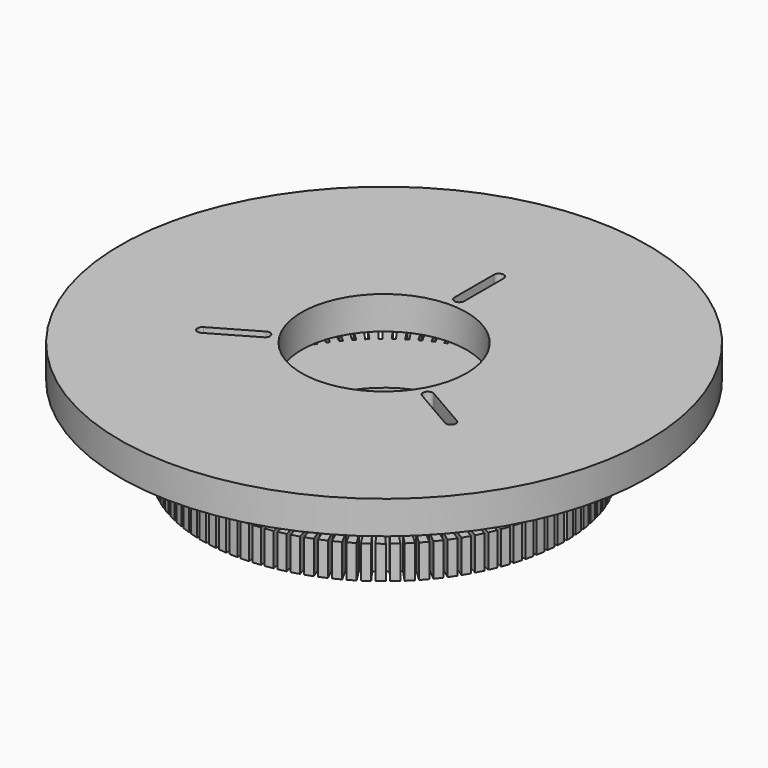
from build123d import *

# Parameters (mm, degrees)
F0_R     = 1
F0_R_2   = 25
F1_DEPTH = 10
F3_R     = 80
F3_R_2   = 25
F4_DEPTH = 10


with BuildPart() as f1:
    # F0 (on Top) → F1 (new body)
    with BuildSketch(Plane.XY):
        with BuildLine():
            Line((50, 0.5), (54.997727, 0.5))
            ThreePointArc((54.997727, 0.5), (54.972861, 1.727592), (54.920597, 2.954323))
            Line((54.920597, 2.954323), (49.932732, 2.640513))
            Line((49.932732, 2.640513), (49.869941, 3.638539))
            Line((49.869941, 3.638539), (54.857807, 3.952349))
            ThreePointArc((54.857807, 3.952349), (54.755908, 5.175957), (54.62672, 6.396986))
            Line((54.62672, 6.396986), (49.668402, 5.770604))
            Line((49.668402, 5.770604), (49.543068, 6.762719))
            Line((49.543068, 6.762719), (54.501387, 7.3891))
            ThreePointArc((54.501387, 7.3891), (54.322859, 8.603896), (54.117257, 9.814403))
            Line((54.117257, 9.814403), (49.208053, 8.877922))
            Line((49.208053, 8.877922), (49.020672, 9.860209))
            Line((49.020672, 9.860209), (53.929876, 10.79669))
            ThreePointArc((53.929876, 10.79669), (53.675422, 11.997878), (53.394217, 13.193087))
            Line((53.394217, 13.193087), (48.553503, 11.950203))
            Line((48.553503, 11.950203), (48.304813, 12.918786))
            Line((48.304813, 12.918786), (53.145528, 14.16167))
            ThreePointArc((53.145528, 14.16167), (52.816153, 15.344511), (52.460455, 16.519704))
            Line((52.460455, 16.519704), (47.707334, 14.975321))
            Line((47.707334, 14.975321), (47.398317, 15.926378))
            Line((47.398317, 15.926378), (52.151438, 17.470761))
            ThreePointArc((52.151438, 17.470761), (51.748442, 18.630586), (51.319656, 19.781125))
            Line((51.319656, 19.781125), (46.672887, 17.941339))
            Line((46.672887, 17.941339), (46.304762, 18.871116))
            Line((46.304762, 18.871116), (50.951531, 20.710902))
            ThreePointArc((50.951531, 20.710902), (50.476504, 21.843134), (49.976321, 22.96448))
            Line((49.976321, 22.96448), (45.454242, 20.836551))
            Line((45.454242, 20.836551), (45.028463, 21.741378))
            Line((45.028463, 21.741378), (49.550542, 23.869307))
            ThreePointArc((49.550542, 23.869307), (49.005359, 24.969477), (48.435753, 26.057204))
            Line((48.435753, 26.057204), (44.056211, 23.64953))
            Line((44.056211, 23.64953), (43.574457, 24.525837))
            Line((43.574457, 24.525837), (47.953999, 26.93351))
            ThreePointArc((47.953999, 26.93351), (47.340811, 27.997278), (46.70403, 29.047092))
            Line((46.70403, 29.047092), (42.48431, 26.369176))
            Line((42.48431, 26.369176), (41.948483, 27.213504))
            Line((41.948483, 27.213504), (46.168204, 29.89142))
            ThreePointArc((46.168204, 29.89142), (45.489432, 30.914586), (44.787989, 31.922344))
            Line((44.787989, 31.922344), (40.744742, 28.984754))
            Line((40.744742, 28.984754), (40.156957, 29.793771))
            Line((40.156957, 29.793771), (44.200203, 32.731361))
            ThreePointArc((44.200203, 32.731361), (43.458526, 33.709888), (42.695189, 34.671614))
            Line((42.695189, 34.671614), (38.844374, 31.485943))
            Line((38.844374, 31.485943), (38.20695, 32.256456))
            Line((38.20695, 32.256456), (42.057765, 35.442127))
            ThreePointArc((42.057765, 35.442127), (41.256109, 36.372153), (40.433891, 37.284051))
            Line((40.433891, 37.284051), (36.790705, 33.862871))
            Line((36.790705, 33.862871), (36.106158, 34.59184))
            Line((36.106158, 34.59184), (39.749344, 38.013019))
            ThreePointArc((39.749344, 38.013019), (38.890873, 38.890873), (38.013019, 39.749344))
            Line((38.013019, 39.749344), (34.59184, 36.106158))
            Line((34.59184, 36.106158), (33.862871, 36.790705))
            Line((33.862871, 36.790705), (37.284051, 40.433891))
            ThreePointArc((37.284051, 40.433891), (36.372153, 41.256109), (35.442127, 42.057765))
            Line((35.442127, 42.057765), (32.256456, 38.20695))
            Line((32.256456, 38.20695), (31.485943, 38.844374))
            Line((31.485943, 38.844374), (34.671614, 42.695189))
            ThreePointArc((34.671614, 42.695189), (33.709888, 43.458526), (32.731361, 44.200203))
            Line((32.731361, 44.200203), (29.793771, 40.156957))
            Line((29.793771, 40.156957), (28.984754, 40.744742))
            Line((28.984754, 40.744742), (31.922344, 44.787989))
            ThreePointArc((31.922344, 44.787989), (30.914586, 45.489432), (29.89142, 46.168204))
            Line((29.89142, 46.168204), (27.213504, 41.948483))
            Line((27.213504, 41.948483), (26.369176, 42.48431))
            Line((26.369176, 42.48431), (29.047092, 46.70403))
            ThreePointArc((29.047092, 46.70403), (27.997278, 47.340811), (26.93351, 47.953999))
            Line((26.93351, 47.953999), (24.525837, 43.574457))
            Line((24.525837, 43.574457), (23.64953, 44.056211))
            Line((23.64953, 44.056211), (26.057204, 48.435753))
            ThreePointArc((26.057204, 48.435753), (24.969477, 49.005359), (23.869307, 49.550542))
            Line((23.869307, 49.550542), (21.741378, 45.028463))
            Line((21.741378, 45.028463), (20.836551, 45.454242))
            Line((20.836551, 45.454242), (22.96448, 49.976321))
            ThreePointArc((22.96448, 49.976321), (21.843134, 50.476504), (20.710902, 50.951531))
            Line((20.710902, 50.951531), (18.871116, 46.304762))
            Line((18.871116, 46.304762), (17.941339, 46.672887))
            Line((17.941339, 46.672887), (19.781125, 51.319656))
            ThreePointArc((19.781125, 51.319656), (18.630586, 51.748442), (17.470761, 52.151438))
            Line((17.470761, 52.151438), (15.926378, 47.398317))
            Line((15.926378, 47.398317), (14.975321, 47.707334))
            Line((14.975321, 47.707334), (16.519704, 52.460455))
            ThreePointArc((16.519704, 52.460455), (15.344511, 52.816153), (14.16167, 53.145528))
            Line((14.16167, 53.145528), (12.918786, 48.304813))
            Line((12.918786, 48.304813), (11.950203, 48.553503))
            Line((11.950203, 48.553503), (13.193087, 53.394217))
            ThreePointArc((13.193087, 53.394217), (11.997878, 53.675422), (10.79669, 53.929876))
            Line((10.79669, 53.929876), (9.860209, 49.020672))
            Line((9.860209, 49.020672), (8.877922, 49.208053))
            Line((8.877922, 49.208053), (9.814403, 54.117257))
            ThreePointArc((9.814403, 54.117257), (8.603896, 54.322859), (7.3891, 54.501387))
            Line((7.3891, 54.501387), (6.762719, 49.543068))
            Line((6.762719, 49.543068), (5.770604, 49.668402))
            Line((5.770604, 49.668402), (6.396986, 54.62672))
            ThreePointArc((6.396986, 54.62672), (5.175957, 54.755908), (3.952349, 54.857807))
            Line((3.952349, 54.857807), (3.638539, 49.869941))
            Line((3.638539, 49.869941), (2.640513, 49.932732))
            Line((2.640513, 49.932732), (2.954323, 54.920597))
            ThreePointArc((2.954323, 54.920597), (1.727592, 54.972861), (0.5, 54.997727))
            Line((0.5, 54.997727), (0.5, 50))
            Line((0.5, 50), (-0.5, 50))
            Line((-0.5, 50), (-0.5, 54.997727))
            ThreePointArc((-0.5, 54.997727), (-1.727592, 54.972861), (-2.954323, 54.920597))
            Line((-2.954323, 54.920597), (-2.640513, 49.932732))
            Line((-2.640513, 49.932732), (-3.638539, 49.869941))
            Line((-3.638539, 49.869941), (-3.952349, 54.857807))
            ThreePointArc((-3.952349, 54.857807), (-5.175957, 54.755908), (-6.396986, 54.62672))
            Line((-6.396986, 54.62672), (-5.770604, 49.668402))
            Line((-5.770604, 49.668402), (-6.762719, 49.543068))
            Line((-6.762719, 49.543068), (-7.3891, 54.501387))
            ThreePointArc((-7.3891, 54.501387), (-8.603896, 54.322859), (-9.814403, 54.117257))
            Line((-9.814403, 54.117257), (-8.877922, 49.208053))
            Line((-8.877922, 49.208053), (-9.860209, 49.020672))
            Line((-9.860209, 49.020672), (-10.79669, 53.929876))
            ThreePointArc((-10.79669, 53.929876), (-11.997878, 53.675422), (-13.193087, 53.394217))
            Line((-13.193087, 53.394217), (-11.950203, 48.553503))
            Line((-11.950203, 48.553503), (-12.918786, 48.304813))
            Line((-12.918786, 48.304813), (-14.16167, 53.145528))
            ThreePointArc((-14.16167, 53.145528), (-15.344511, 52.816153), (-16.519704, 52.460455))
            Line((-16.519704, 52.460455), (-14.975321, 47.707334))
            Line((-14.975321, 47.707334), (-15.926378, 47.398317))
            Line((-15.926378, 47.398317), (-17.470761, 52.151438))
            ThreePointArc((-17.470761, 52.151438), (-18.630586, 51.748442), (-19.781125, 51.319656))
            Line((-19.781125, 51.319656), (-17.941339, 46.672887))
            Line((-17.941339, 46.672887), (-18.871116, 46.304762))
            Line((-18.871116, 46.304762), (-20.710902, 50.951531))
            ThreePointArc((-20.710902, 50.951531), (-21.843134, 50.476504), (-22.96448, 49.976321))
            Line((-22.96448, 49.976321), (-20.836551, 45.454242))
            Line((-20.836551, 45.454242), (-21.741378, 45.028463))
            Line((-21.741378, 45.028463), (-23.869307, 49.550542))
            ThreePointArc((-23.869307, 49.550542), (-24.969477, 49.005359), (-26.057204, 48.435753))
            Line((-26.057204, 48.435753), (-23.64953, 44.056211))
            Line((-23.64953, 44.056211), (-24.525837, 43.574457))
            Line((-24.525837, 43.574457), (-26.93351, 47.953999))
            ThreePointArc((-26.93351, 47.953999), (-27.997278, 47.340811), (-29.047092, 46.70403))
            Line((-29.047092, 46.70403), (-26.369176, 42.48431))
            Line((-26.369176, 42.48431), (-27.213504, 41.948483))
            Line((-27.213504, 41.948483), (-29.89142, 46.168204))
            ThreePointArc((-29.89142, 46.168204), (-30.914586, 45.489432), (-31.922344, 44.787989))
            Line((-31.922344, 44.787989), (-28.984754, 40.744742))
            Line((-28.984754, 40.744742), (-29.793771, 40.156957))
            Line((-29.793771, 40.156957), (-32.731361, 44.200203))
            ThreePointArc((-32.731361, 44.200203), (-33.709888, 43.458526), (-34.671614, 42.695189))
            Line((-34.671614, 42.695189), (-31.485943, 38.844374))
            Line((-31.485943, 38.844374), (-32.256456, 38.20695))
            Line((-32.256456, 38.20695), (-35.442127, 42.057765))
            ThreePointArc((-35.442127, 42.057765), (-36.372153, 41.256109), (-37.284051, 40.433891))
            Line((-37.284051, 40.433891), (-33.862871, 36.790705))
            Line((-33.862871, 36.790705), (-34.59184, 36.106158))
            Line((-34.59184, 36.106158), (-38.013019, 39.749344))
            ThreePointArc((-38.013019, 39.749344), (-38.890873, 38.890873), (-39.749344, 38.013019))
            Line((-39.749344, 38.013019), (-36.106158, 34.59184))
            Line((-36.106158, 34.59184), (-36.790705, 33.862871))
            Line((-36.790705, 33.862871), (-40.433891, 37.284051))
            ThreePointArc((-40.433891, 37.284051), (-41.256109, 36.372153), (-42.057765, 35.442127))
            Line((-42.057765, 35.442127), (-38.20695, 32.256456))
            Line((-38.20695, 32.256456), (-38.844374, 31.485943))
            Line((-38.844374, 31.485943), (-42.695189, 34.671614))
            ThreePointArc((-42.695189, 34.671614), (-43.458526, 33.709888), (-44.200203, 32.731361))
            Line((-44.200203, 32.731361), (-40.156957, 29.793771))
            Line((-40.156957, 29.793771), (-40.744742, 28.984754))
            Line((-40.744742, 28.984754), (-44.787989, 31.922344))
            ThreePointArc((-44.787989, 31.922344), (-45.489432, 30.914586), (-46.168204, 29.89142))
            Line((-46.168204, 29.89142), (-41.948483, 27.213504))
            Line((-41.948483, 27.213504), (-42.48431, 26.369176))
            Line((-42.48431, 26.369176), (-46.70403, 29.047092))
            ThreePointArc((-46.70403, 29.047092), (-47.340811, 27.997278), (-47.953999, 26.93351))
            Line((-47.953999, 26.93351), (-43.574457, 24.525837))
            Line((-43.574457, 24.525837), (-44.056211, 23.64953))
            Line((-44.056211, 23.64953), (-48.435753, 26.057204))
            ThreePointArc((-48.435753, 26.057204), (-49.005359, 24.969477), (-49.550542, 23.869307))
            Line((-49.550542, 23.869307), (-45.028463, 21.741378))
            Line((-45.028463, 21.741378), (-45.454242, 20.836551))
            Line((-45.454242, 20.836551), (-49.976321, 22.96448))
            ThreePointArc((-49.976321, 22.96448), (-50.476504, 21.843134), (-50.951531, 20.710902))
            Line((-50.951531, 20.710902), (-46.304762, 18.871116))
            Line((-46.304762, 18.871116), (-46.672887, 17.941339))
            Line((-46.672887, 17.941339), (-51.319656, 19.781125))
            ThreePointArc((-51.319656, 19.781125), (-51.748442, 18.630586), (-52.151438, 17.470761))
            Line((-52.151438, 17.470761), (-47.398317, 15.926378))
            Line((-47.398317, 15.926378), (-47.707334, 14.975321))
            Line((-47.707334, 14.975321), (-52.460455, 16.519704))
            ThreePointArc((-52.460455, 16.519704), (-52.816153, 15.344511), (-53.145528, 14.16167))
            Line((-53.145528, 14.16167), (-48.304813, 12.918786))
            Line((-48.304813, 12.918786), (-48.553503, 11.950203))
            Line((-48.553503, 11.950203), (-53.394217, 13.193087))
            ThreePointArc((-53.394217, 13.193087), (-53.675422, 11.997878), (-53.929876, 10.79669))
            Line((-53.929876, 10.79669), (-49.020672, 9.860209))
            Line((-49.020672, 9.860209), (-49.208053, 8.877922))
            Line((-49.208053, 8.877922), (-54.117257, 9.814403))
            ThreePointArc((-54.117257, 9.814403), (-54.322859, 8.603896), (-54.501387, 7.3891))
            Line((-54.501387, 7.3891), (-49.543068, 6.762719))
            Line((-49.543068, 6.762719), (-49.668402, 5.770604))
            Line((-49.668402, 5.770604), (-54.62672, 6.396986))
            ThreePointArc((-54.62672, 6.396986), (-54.755908, 5.175957), (-54.857807, 3.952349))
            Line((-54.857807, 3.952349), (-49.869941, 3.638539))
            Line((-49.869941, 3.638539), (-49.932732, 2.640513))
            Line((-49.932732, 2.640513), (-54.920597, 2.954323))
            ThreePointArc((-54.920597, 2.954323), (-54.972861, 1.727592), (-54.997727, 0.5))
            Line((-54.997727, 0.5), (-50, 0.5))
            Line((-50, 0.5), (-50, -0.5))
            Line((-50, -0.5), (-54.997727, -0.5))
            ThreePointArc((-54.997727, -0.5), (-54.972861, -1.727592), (-54.920597, -2.954323))
            Line((-54.920597, -2.954323), (-49.932732, -2.640513))
            Line((-49.932732, -2.640513), (-49.869941, -3.638539))
            Line((-49.869941, -3.638539), (-54.857807, -3.952349))
            ThreePointArc((-54.857807, -3.952349), (-54.755908, -5.175957), (-54.62672, -6.396986))
            Line((-54.62672, -6.396986), (-49.668402, -5.770604))
            Line((-49.668402, -5.770604), (-49.543068, -6.762719))
            Line((-49.543068, -6.762719), (-54.501387, -7.3891))
            ThreePointArc((-54.501387, -7.3891), (-54.322859, -8.603896), (-54.117257, -9.814403))
            Line((-54.117257, -9.814403), (-49.208053, -8.877922))
            Line((-49.208053, -8.877922), (-49.020672, -9.860209))
            Line((-49.020672, -9.860209), (-53.929876, -10.79669))
            ThreePointArc((-53.929876, -10.79669), (-53.675422, -11.997878), (-53.394217, -13.193087))
            Line((-53.394217, -13.193087), (-48.553503, -11.950203))
            Line((-48.553503, -11.950203), (-48.304813, -12.918786))
            Line((-48.304813, -12.918786), (-53.145528, -14.16167))
            ThreePointArc((-53.145528, -14.16167), (-52.816153, -15.344511), (-52.460455, -16.519704))
            Line((-52.460455, -16.519704), (-47.707334, -14.975321))
            Line((-47.707334, -14.975321), (-47.398317, -15.926378))
            Line((-47.398317, -15.926378), (-52.151438, -17.470761))
            ThreePointArc((-52.151438, -17.470761), (-51.748442, -18.630586), (-51.319656, -19.781125))
            Line((-51.319656, -19.781125), (-46.672887, -17.941339))
            Line((-46.672887, -17.941339), (-46.304762, -18.871116))
            Line((-46.304762, -18.871116), (-50.951531, -20.710902))
            ThreePointArc((-50.951531, -20.710902), (-50.476504, -21.843134), (-49.976321, -22.96448))
            Line((-49.976321, -22.96448), (-45.454242, -20.836551))
            Line((-45.454242, -20.836551), (-45.028463, -21.741378))
            Line((-45.028463, -21.741378), (-49.550542, -23.869307))
            ThreePointArc((-49.550542, -23.869307), (-49.005359, -24.969477), (-48.435753, -26.057204))
            Line((-48.435753, -26.057204), (-44.056211, -23.64953))
            Line((-44.056211, -23.64953), (-43.574457, -24.525837))
            Line((-43.574457, -24.525837), (-47.953999, -26.93351))
            ThreePointArc((-47.953999, -26.93351), (-47.340811, -27.997278), (-46.70403, -29.047092))
            Line((-46.70403, -29.047092), (-42.48431, -26.369176))
            Line((-42.48431, -26.369176), (-41.948483, -27.213504))
            Line((-41.948483, -27.213504), (-46.168204, -29.89142))
            ThreePointArc((-46.168204, -29.89142), (-45.489432, -30.914586), (-44.787989, -31.922344))
            Line((-44.787989, -31.922344), (-40.744742, -28.984754))
            Line((-40.744742, -28.984754), (-40.156957, -29.793771))
            Line((-40.156957, -29.793771), (-44.200203, -32.731361))
            ThreePointArc((-44.200203, -32.731361), (-43.458526, -33.709888), (-42.695189, -34.671614))
            Line((-42.695189, -34.671614), (-38.844374, -31.485943))
            Line((-38.844374, -31.485943), (-38.20695, -32.256456))
            Line((-38.20695, -32.256456), (-42.057765, -35.442127))
            ThreePointArc((-42.057765, -35.442127), (-41.256109, -36.372153), (-40.433891, -37.284051))
            Line((-40.433891, -37.284051), (-36.790705, -33.862871))
            Line((-36.790705, -33.862871), (-36.106158, -34.59184))
            Line((-36.106158, -34.59184), (-39.749344, -38.013019))
            ThreePointArc((-39.749344, -38.013019), (-38.890873, -38.890873), (-38.013019, -39.749344))
            Line((-38.013019, -39.749344), (-34.59184, -36.106158))
            Line((-34.59184, -36.106158), (-33.862871, -36.790705))
            Line((-33.862871, -36.790705), (-37.284051, -40.433891))
            ThreePointArc((-37.284051, -40.433891), (-36.372153, -41.256109), (-35.442127, -42.057765))
            Line((-35.442127, -42.057765), (-32.256456, -38.20695))
            Line((-32.256456, -38.20695), (-31.485943, -38.844374))
            Line((-31.485943, -38.844374), (-34.671614, -42.695189))
            ThreePointArc((-34.671614, -42.695189), (-33.709888, -43.458526), (-32.731361, -44.200203))
            Line((-32.731361, -44.200203), (-29.793771, -40.156957))
            Line((-29.793771, -40.156957), (-28.984754, -40.744742))
            Line((-28.984754, -40.744742), (-31.922344, -44.787989))
            ThreePointArc((-31.922344, -44.787989), (-30.914586, -45.489432), (-29.89142, -46.168204))
            Line((-29.89142, -46.168204), (-27.213504, -41.948483))
            Line((-27.213504, -41.948483), (-26.369176, -42.48431))
            Line((-26.369176, -42.48431), (-29.047092, -46.70403))
            ThreePointArc((-29.047092, -46.70403), (-27.997278, -47.340811), (-26.93351, -47.953999))
            Line((-26.93351, -47.953999), (-24.525837, -43.574457))
            Line((-24.525837, -43.574457), (-23.64953, -44.056211))
            Line((-23.64953, -44.056211), (-26.057204, -48.435753))
            ThreePointArc((-26.057204, -48.435753), (-24.969477, -49.005359), (-23.869307, -49.550542))
            Line((-23.869307, -49.550542), (-21.741378, -45.028463))
            Line((-21.741378, -45.028463), (-20.836551, -45.454242))
            Line((-20.836551, -45.454242), (-22.96448, -49.976321))
            ThreePointArc((-22.96448, -49.976321), (-21.843134, -50.476504), (-20.710902, -50.951531))
            Line((-20.710902, -50.951531), (-18.871116, -46.304762))
            Line((-18.871116, -46.304762), (-17.941339, -46.672887))
            Line((-17.941339, -46.672887), (-19.781125, -51.319656))
            ThreePointArc((-19.781125, -51.319656), (-18.630586, -51.748442), (-17.470761, -52.151438))
            Line((-17.470761, -52.151438), (-15.926378, -47.398317))
            Line((-15.926378, -47.398317), (-14.975321, -47.707334))
            Line((-14.975321, -47.707334), (-16.519704, -52.460455))
            ThreePointArc((-16.519704, -52.460455), (-15.344511, -52.816153), (-14.16167, -53.145528))
            Line((-14.16167, -53.145528), (-12.918786, -48.304813))
            Line((-12.918786, -48.304813), (-11.950203, -48.553503))
            Line((-11.950203, -48.553503), (-13.193087, -53.394217))
            ThreePointArc((-13.193087, -53.394217), (-11.997878, -53.675422), (-10.79669, -53.929876))
            Line((-10.79669, -53.929876), (-9.860209, -49.020672))
            Line((-9.860209, -49.020672), (-8.877922, -49.208053))
            Line((-8.877922, -49.208053), (-9.814403, -54.117257))
            ThreePointArc((-9.814403, -54.117257), (-8.603896, -54.322859), (-7.3891, -54.501387))
            Line((-7.3891, -54.501387), (-6.762719, -49.543068))
            Line((-6.762719, -49.543068), (-5.770604, -49.668402))
            Line((-5.770604, -49.668402), (-6.396986, -54.62672))
            ThreePointArc((-6.396986, -54.62672), (-5.175957, -54.755908), (-3.952349, -54.857807))
            Line((-3.952349, -54.857807), (-3.638539, -49.869941))
            Line((-3.638539, -49.869941), (-2.640513, -49.932732))
            Line((-2.640513, -49.932732), (-2.954323, -54.920597))
            ThreePointArc((-2.954323, -54.920597), (-1.727592, -54.972861), (-0.5, -54.997727))
            Line((-0.5, -54.997727), (-0.5, -50))
            Line((-0.5, -50), (0.5, -50))
            Line((0.5, -50), (0.5, -54.997727))
            ThreePointArc((0.5, -54.997727), (1.727592, -54.972861), (2.954323, -54.920597))
            Line((2.954323, -54.920597), (2.640513, -49.932732))
            Line((2.640513, -49.932732), (3.638539, -49.869941))
            Line((3.638539, -49.869941), (3.952349, -54.857807))
            ThreePointArc((3.952349, -54.857807), (5.175957, -54.755908), (6.396986, -54.62672))
            Line((6.396986, -54.62672), (5.770604, -49.668402))
            Line((5.770604, -49.668402), (6.762719, -49.543068))
            Line((6.762719, -49.543068), (7.3891, -54.501387))
            ThreePointArc((7.3891, -54.501387), (8.603896, -54.322859), (9.814403, -54.117257))
            Line((9.814403, -54.117257), (8.877922, -49.208053))
            Line((8.877922, -49.208053), (9.860209, -49.020672))
            Line((9.860209, -49.020672), (10.79669, -53.929876))
            ThreePointArc((10.79669, -53.929876), (11.997878, -53.675422), (13.193087, -53.394217))
            Line((13.193087, -53.394217), (11.950203, -48.553503))
            Line((11.950203, -48.553503), (12.918786, -48.304813))
            Line((12.918786, -48.304813), (14.16167, -53.145528))
            ThreePointArc((14.16167, -53.145528), (15.344511, -52.816153), (16.519704, -52.460455))
            Line((16.519704, -52.460455), (14.975321, -47.707334))
            Line((14.975321, -47.707334), (15.926378, -47.398317))
            Line((15.926378, -47.398317), (17.470761, -52.151438))
            ThreePointArc((17.470761, -52.151438), (18.630586, -51.748442), (19.781125, -51.319656))
            Line((19.781125, -51.319656), (17.941339, -46.672887))
            Line((17.941339, -46.672887), (18.871116, -46.304762))
            Line((18.871116, -46.304762), (20.710902, -50.951531))
            ThreePointArc((20.710902, -50.951531), (21.843134, -50.476504), (22.96448, -49.976321))
            Line((22.96448, -49.976321), (20.836551, -45.454242))
            Line((20.836551, -45.454242), (21.741378, -45.028463))
            Line((21.741378, -45.028463), (23.869307, -49.550542))
            ThreePointArc((23.869307, -49.550542), (24.969477, -49.005359), (26.057204, -48.435753))
            Line((26.057204, -48.435753), (23.64953, -44.056211))
            Line((23.64953, -44.056211), (24.525837, -43.574457))
            Line((24.525837, -43.574457), (26.93351, -47.953999))
            ThreePointArc((26.93351, -47.953999), (27.997278, -47.340811), (29.047092, -46.70403))
            Line((29.047092, -46.70403), (26.369176, -42.48431))
            Line((26.369176, -42.48431), (27.213504, -41.948483))
            Line((27.213504, -41.948483), (29.89142, -46.168204))
            ThreePointArc((29.89142, -46.168204), (30.914586, -45.489432), (31.922344, -44.787989))
            Line((31.922344, -44.787989), (28.984754, -40.744742))
            Line((28.984754, -40.744742), (29.793771, -40.156957))
            Line((29.793771, -40.156957), (32.731361, -44.200203))
            ThreePointArc((32.731361, -44.200203), (33.709888, -43.458526), (34.671614, -42.695189))
            Line((34.671614, -42.695189), (31.485943, -38.844374))
            Line((31.485943, -38.844374), (32.256456, -38.20695))
            Line((32.256456, -38.20695), (35.442127, -42.057765))
            ThreePointArc((35.442127, -42.057765), (36.372153, -41.256109), (37.284051, -40.433891))
            Line((37.284051, -40.433891), (33.862871, -36.790705))
            Line((33.862871, -36.790705), (34.59184, -36.106158))
            Line((34.59184, -36.106158), (38.013019, -39.749344))
            ThreePointArc((38.013019, -39.749344), (38.890873, -38.890873), (39.749344, -38.013019))
            Line((39.749344, -38.013019), (36.106158, -34.59184))
            Line((36.106158, -34.59184), (36.790705, -33.862871))
            Line((36.790705, -33.862871), (40.433891, -37.284051))
            ThreePointArc((40.433891, -37.284051), (41.256109, -36.372153), (42.057765, -35.442127))
            Line((42.057765, -35.442127), (38.20695, -32.256456))
            Line((38.20695, -32.256456), (38.844374, -31.485943))
            Line((38.844374, -31.485943), (42.695189, -34.671614))
            ThreePointArc((42.695189, -34.671614), (43.458526, -33.709888), (44.200203, -32.731361))
            Line((44.200203, -32.731361), (40.156957, -29.793771))
            Line((40.156957, -29.793771), (40.744742, -28.984754))
            Line((40.744742, -28.984754), (44.787989, -31.922344))
            ThreePointArc((44.787989, -31.922344), (45.489432, -30.914586), (46.168204, -29.89142))
            Line((46.168204, -29.89142), (41.948483, -27.213504))
            Line((41.948483, -27.213504), (42.48431, -26.369176))
            Line((42.48431, -26.369176), (46.70403, -29.047092))
            ThreePointArc((46.70403, -29.047092), (47.340811, -27.997278), (47.953999, -26.93351))
            Line((47.953999, -26.93351), (43.574457, -24.525837))
            Line((43.574457, -24.525837), (44.056211, -23.64953))
            Line((44.056211, -23.64953), (48.435753, -26.057204))
            ThreePointArc((48.435753, -26.057204), (49.005359, -24.969477), (49.550542, -23.869307))
            Line((49.550542, -23.869307), (45.028463, -21.741378))
            Line((45.028463, -21.741378), (45.454242, -20.836551))
            Line((45.454242, -20.836551), (49.976321, -22.96448))
            ThreePointArc((49.976321, -22.96448), (50.476504, -21.843134), (50.951531, -20.710902))
            Line((50.951531, -20.710902), (46.304762, -18.871116))
            Line((46.304762, -18.871116), (46.672887, -17.941339))
            Line((46.672887, -17.941339), (51.319656, -19.781125))
            ThreePointArc((51.319656, -19.781125), (51.748442, -18.630586), (52.151438, -17.470761))
            Line((52.151438, -17.470761), (47.398317, -15.926378))
            Line((47.398317, -15.926378), (47.707334, -14.975321))
            Line((47.707334, -14.975321), (52.460455, -16.519704))
            ThreePointArc((52.460455, -16.519704), (52.816153, -15.344511), (53.145528, -14.16167))
            Line((53.145528, -14.16167), (48.304813, -12.918786))
            Line((48.304813, -12.918786), (48.553503, -11.950203))
            Line((48.553503, -11.950203), (53.394217, -13.193087))
            ThreePointArc((53.394217, -13.193087), (53.675422, -11.997878), (53.929876, -10.79669))
            Line((53.929876, -10.79669), (49.020672, -9.860209))
            Line((49.020672, -9.860209), (49.208053, -8.877922))
            Line((49.208053, -8.877922), (54.117257, -9.814403))
            ThreePointArc((54.117257, -9.814403), (54.322859, -8.603896), (54.501387, -7.3891))
            Line((54.501387, -7.3891), (49.543068, -6.762719))
            Line((49.543068, -6.762719), (49.668402, -5.770604))
            Line((49.668402, -5.770604), (54.62672, -6.396986))
            ThreePointArc((54.62672, -6.396986), (54.755908, -5.175957), (54.857807, -3.952349))
            Line((54.857807, -3.952349), (49.869941, -3.638539))
            Line((49.869941, -3.638539), (49.932732, -2.640513))
            Line((49.932732, -2.640513), (54.920597, -2.954323))
            ThreePointArc((54.920597, -2.954323), (54.972861, -1.727592), (54.997727, -0.5))
            Line((54.997727, -0.5), (50, -0.5))
            Line((50, -0.5), (50, 0.5))
        make_face()
        with Locations((-37.672105, -21.75)):
            Circle(F0_R, mode=Mode.SUBTRACT)
        with Locations((-33.341978, -19.25)):
            Circle(F0_R, mode=Mode.SUBTRACT)
        with Locations((-29.011851, -16.75)):
            Circle(F0_R, mode=Mode.SUBTRACT)
        with Locations((-24.681724, -14.25)):
            Circle(F0_R, mode=Mode.SUBTRACT)
        with Locations((29.011851, -16.75)):
            Circle(F0_R, mode=Mode.SUBTRACT)
        with Locations((24.681724, -14.25)):
            Circle(F0_R, mode=Mode.SUBTRACT)
        with Locations((33.341978, -19.25)):
            Circle(F0_R, mode=Mode.SUBTRACT)
        with Locations((37.672105, -21.75)):
            Circle(F0_R, mode=Mode.SUBTRACT)
        Circle(F0_R_2, mode=Mode.SUBTRACT)
        with Locations((0, 28.5)):
            Circle(F0_R, mode=Mode.SUBTRACT)
        with Locations((0, 33.5)):
            Circle(F0_R, mode=Mode.SUBTRACT)
        with Locations((0, 38.5)):
            Circle(F0_R, mode=Mode.SUBTRACT)
        with Locations((0, 43.5)):
            Circle(F0_R, mode=Mode.SUBTRACT)
        with BuildLine():
            Line((50, 0.5), (54.997727, 0.5))
            ThreePointArc((54.997727, 0.5), (54.972861, 1.727592), (54.920597, 2.954323))
            Line((54.920597, 2.954323), (49.932732, 2.640513))
            Line((49.932732, 2.640513), (49.869941, 3.638539))
            Line((49.869941, 3.638539), (54.857807, 3.952349))
            ThreePointArc((54.857807, 3.952349), (54.755908, 5.175957), (54.62672, 6.396986))
            Line((54.62672, 6.396986), (49.668402, 5.770604))
            Line((49.668402, 5.770604), (49.543068, 6.762719))
            Line((49.543068, 6.762719), (54.501387, 7.3891))
            ThreePointArc((54.501387, 7.3891), (54.322859, 8.603896), (54.117257, 9.814403))
            Line((54.117257, 9.814403), (49.208053, 8.877922))
            Line((49.208053, 8.877922), (49.020672, 9.860209))
            Line((49.020672, 9.860209), (53.929876, 10.79669))
            ThreePointArc((53.929876, 10.79669), (53.675422, 11.997878), (53.394217, 13.193087))
            Line((53.394217, 13.193087), (48.553503, 11.950203))
            Line((48.553503, 11.950203), (48.304813, 12.918786))
            Line((48.304813, 12.918786), (53.145528, 14.16167))
            ThreePointArc((53.145528, 14.16167), (52.816153, 15.344511), (52.460455, 16.519704))
            Line((52.460455, 16.519704), (47.707334, 14.975321))
            Line((47.707334, 14.975321), (47.398317, 15.926378))
            Line((47.398317, 15.926378), (52.151438, 17.470761))
            ThreePointArc((52.151438, 17.470761), (51.748442, 18.630586), (51.319656, 19.781125))
            Line((51.319656, 19.781125), (46.672887, 17.941339))
            Line((46.672887, 17.941339), (46.304762, 18.871116))
            Line((46.304762, 18.871116), (50.951531, 20.710902))
            ThreePointArc((50.951531, 20.710902), (50.476504, 21.843134), (49.976321, 22.96448))
            Line((49.976321, 22.96448), (45.454242, 20.836551))
            Line((45.454242, 20.836551), (45.028463, 21.741378))
            Line((45.028463, 21.741378), (49.550542, 23.869307))
            ThreePointArc((49.550542, 23.869307), (49.005359, 24.969477), (48.435753, 26.057204))
            Line((48.435753, 26.057204), (44.056211, 23.64953))
            Line((44.056211, 23.64953), (43.574457, 24.525837))
            Line((43.574457, 24.525837), (47.953999, 26.93351))
            ThreePointArc((47.953999, 26.93351), (47.340811, 27.997278), (46.70403, 29.047092))
            Line((46.70403, 29.047092), (42.48431, 26.369176))
            Line((42.48431, 26.369176), (41.948483, 27.213504))
            Line((41.948483, 27.213504), (46.168204, 29.89142))
            ThreePointArc((46.168204, 29.89142), (45.489432, 30.914586), (44.787989, 31.922344))
            Line((44.787989, 31.922344), (40.744742, 28.984754))
            Line((40.744742, 28.984754), (40.156957, 29.793771))
            Line((40.156957, 29.793771), (44.200203, 32.731361))
            ThreePointArc((44.200203, 32.731361), (43.458526, 33.709888), (42.695189, 34.671614))
            Line((42.695189, 34.671614), (38.844374, 31.485943))
            Line((38.844374, 31.485943), (38.20695, 32.256456))
            Line((38.20695, 32.256456), (42.057765, 35.442127))
            ThreePointArc((42.057765, 35.442127), (41.256109, 36.372153), (40.433891, 37.284051))
            Line((40.433891, 37.284051), (36.790705, 33.862871))
            Line((36.790705, 33.862871), (36.106158, 34.59184))
            Line((36.106158, 34.59184), (39.749344, 38.013019))
            ThreePointArc((39.749344, 38.013019), (38.890873, 38.890873), (38.013019, 39.749344))
            Line((38.013019, 39.749344), (34.59184, 36.106158))
            Line((34.59184, 36.106158), (33.862871, 36.790705))
            Line((33.862871, 36.790705), (37.284051, 40.433891))
            ThreePointArc((37.284051, 40.433891), (36.372153, 41.256109), (35.442127, 42.057765))
            Line((35.442127, 42.057765), (32.256456, 38.20695))
            Line((32.256456, 38.20695), (31.485943, 38.844374))
            Line((31.485943, 38.844374), (34.671614, 42.695189))
            ThreePointArc((34.671614, 42.695189), (33.709888, 43.458526), (32.731361, 44.200203))
            Line((32.731361, 44.200203), (29.793771, 40.156957))
            Line((29.793771, 40.156957), (28.984754, 40.744742))
            Line((28.984754, 40.744742), (31.922344, 44.787989))
            ThreePointArc((31.922344, 44.787989), (30.914586, 45.489432), (29.89142, 46.168204))
            Line((29.89142, 46.168204), (27.213504, 41.948483))
            Line((27.213504, 41.948483), (26.369176, 42.48431))
            Line((26.369176, 42.48431), (29.047092, 46.70403))
            ThreePointArc((29.047092, 46.70403), (27.997278, 47.340811), (26.93351, 47.953999))
            Line((26.93351, 47.953999), (24.525837, 43.574457))
            Line((24.525837, 43.574457), (23.64953, 44.056211))
            Line((23.64953, 44.056211), (26.057204, 48.435753))
            ThreePointArc((26.057204, 48.435753), (24.969477, 49.005359), (23.869307, 49.550542))
            Line((23.869307, 49.550542), (21.741378, 45.028463))
            Line((21.741378, 45.028463), (20.836551, 45.454242))
            Line((20.836551, 45.454242), (22.96448, 49.976321))
            ThreePointArc((22.96448, 49.976321), (21.843134, 50.476504), (20.710902, 50.951531))
            Line((20.710902, 50.951531), (18.871116, 46.304762))
            Line((18.871116, 46.304762), (17.941339, 46.672887))
            Line((17.941339, 46.672887), (19.781125, 51.319656))
            ThreePointArc((19.781125, 51.319656), (18.630586, 51.748442), (17.470761, 52.151438))
            Line((17.470761, 52.151438), (15.926378, 47.398317))
            Line((15.926378, 47.398317), (14.975321, 47.707334))
            Line((14.975321, 47.707334), (16.519704, 52.460455))
            ThreePointArc((16.519704, 52.460455), (15.344511, 52.816153), (14.16167, 53.145528))
            Line((14.16167, 53.145528), (12.918786, 48.304813))
            Line((12.918786, 48.304813), (11.950203, 48.553503))
            Line((11.950203, 48.553503), (13.193087, 53.394217))
            ThreePointArc((13.193087, 53.394217), (11.997878, 53.675422), (10.79669, 53.929876))
            Line((10.79669, 53.929876), (9.860209, 49.020672))
            Line((9.860209, 49.020672), (8.877922, 49.208053))
            Line((8.877922, 49.208053), (9.814403, 54.117257))
            ThreePointArc((9.814403, 54.117257), (8.603896, 54.322859), (7.3891, 54.501387))
            Line((7.3891, 54.501387), (6.762719, 49.543068))
            Line((6.762719, 49.543068), (5.770604, 49.668402))
            Line((5.770604, 49.668402), (6.396986, 54.62672))
            ThreePointArc((6.396986, 54.62672), (5.175957, 54.755908), (3.952349, 54.857807))
            Line((3.952349, 54.857807), (3.638539, 49.869941))
            Line((3.638539, 49.869941), (2.640513, 49.932732))
            Line((2.640513, 49.932732), (2.954323, 54.920597))
            ThreePointArc((2.954323, 54.920597), (1.727592, 54.972861), (0.5, 54.997727))
            Line((0.5, 54.997727), (0.5, 50))
            Line((0.5, 50), (-0.5, 50))
            Line((-0.5, 50), (-0.5, 54.997727))
            ThreePointArc((-0.5, 54.997727), (-1.727592, 54.972861), (-2.954323, 54.920597))
            Line((-2.954323, 54.920597), (-2.640513, 49.932732))
            Line((-2.640513, 49.932732), (-3.638539, 49.869941))
            Line((-3.638539, 49.869941), (-3.952349, 54.857807))
            ThreePointArc((-3.952349, 54.857807), (-5.175957, 54.755908), (-6.396986, 54.62672))
            Line((-6.396986, 54.62672), (-5.770604, 49.668402))
            Line((-5.770604, 49.668402), (-6.762719, 49.543068))
            Line((-6.762719, 49.543068), (-7.3891, 54.501387))
            ThreePointArc((-7.3891, 54.501387), (-8.603896, 54.322859), (-9.814403, 54.117257))
            Line((-9.814403, 54.117257), (-8.877922, 49.208053))
            Line((-8.877922, 49.208053), (-9.860209, 49.020672))
            Line((-9.860209, 49.020672), (-10.79669, 53.929876))
            ThreePointArc((-10.79669, 53.929876), (-11.997878, 53.675422), (-13.193087, 53.394217))
            Line((-13.193087, 53.394217), (-11.950203, 48.553503))
            Line((-11.950203, 48.553503), (-12.918786, 48.304813))
            Line((-12.918786, 48.304813), (-14.16167, 53.145528))
            ThreePointArc((-14.16167, 53.145528), (-15.344511, 52.816153), (-16.519704, 52.460455))
            Line((-16.519704, 52.460455), (-14.975321, 47.707334))
            Line((-14.975321, 47.707334), (-15.926378, 47.398317))
            Line((-15.926378, 47.398317), (-17.470761, 52.151438))
            ThreePointArc((-17.470761, 52.151438), (-18.630586, 51.748442), (-19.781125, 51.319656))
            Line((-19.781125, 51.319656), (-17.941339, 46.672887))
            Line((-17.941339, 46.672887), (-18.871116, 46.304762))
            Line((-18.871116, 46.304762), (-20.710902, 50.951531))
            ThreePointArc((-20.710902, 50.951531), (-21.843134, 50.476504), (-22.96448, 49.976321))
            Line((-22.96448, 49.976321), (-20.836551, 45.454242))
            Line((-20.836551, 45.454242), (-21.741378, 45.028463))
            Line((-21.741378, 45.028463), (-23.869307, 49.550542))
            ThreePointArc((-23.869307, 49.550542), (-24.969477, 49.005359), (-26.057204, 48.435753))
            Line((-26.057204, 48.435753), (-23.64953, 44.056211))
            Line((-23.64953, 44.056211), (-24.525837, 43.574457))
            Line((-24.525837, 43.574457), (-26.93351, 47.953999))
            ThreePointArc((-26.93351, 47.953999), (-27.997278, 47.340811), (-29.047092, 46.70403))
            Line((-29.047092, 46.70403), (-26.369176, 42.48431))
            Line((-26.369176, 42.48431), (-27.213504, 41.948483))
            Line((-27.213504, 41.948483), (-29.89142, 46.168204))
            ThreePointArc((-29.89142, 46.168204), (-30.914586, 45.489432), (-31.922344, 44.787989))
            Line((-31.922344, 44.787989), (-28.984754, 40.744742))
            Line((-28.984754, 40.744742), (-29.793771, 40.156957))
            Line((-29.793771, 40.156957), (-32.731361, 44.200203))
            ThreePointArc((-32.731361, 44.200203), (-33.709888, 43.458526), (-34.671614, 42.695189))
            Line((-34.671614, 42.695189), (-31.485943, 38.844374))
            Line((-31.485943, 38.844374), (-32.256456, 38.20695))
            Line((-32.256456, 38.20695), (-35.442127, 42.057765))
            ThreePointArc((-35.442127, 42.057765), (-36.372153, 41.256109), (-37.284051, 40.433891))
            Line((-37.284051, 40.433891), (-33.862871, 36.790705))
            Line((-33.862871, 36.790705), (-34.59184, 36.106158))
            Line((-34.59184, 36.106158), (-38.013019, 39.749344))
            ThreePointArc((-38.013019, 39.749344), (-38.890873, 38.890873), (-39.749344, 38.013019))
            Line((-39.749344, 38.013019), (-36.106158, 34.59184))
            Line((-36.106158, 34.59184), (-36.790705, 33.862871))
            Line((-36.790705, 33.862871), (-40.433891, 37.284051))
            ThreePointArc((-40.433891, 37.284051), (-41.256109, 36.372153), (-42.057765, 35.442127))
            Line((-42.057765, 35.442127), (-38.20695, 32.256456))
            Line((-38.20695, 32.256456), (-38.844374, 31.485943))
            Line((-38.844374, 31.485943), (-42.695189, 34.671614))
            ThreePointArc((-42.695189, 34.671614), (-43.458526, 33.709888), (-44.200203, 32.731361))
            Line((-44.200203, 32.731361), (-40.156957, 29.793771))
            Line((-40.156957, 29.793771), (-40.744742, 28.984754))
            Line((-40.744742, 28.984754), (-44.787989, 31.922344))
            ThreePointArc((-44.787989, 31.922344), (-45.489432, 30.914586), (-46.168204, 29.89142))
            Line((-46.168204, 29.89142), (-41.948483, 27.213504))
            Line((-41.948483, 27.213504), (-42.48431, 26.369176))
            Line((-42.48431, 26.369176), (-46.70403, 29.047092))
            ThreePointArc((-46.70403, 29.047092), (-47.340811, 27.997278), (-47.953999, 26.93351))
            Line((-47.953999, 26.93351), (-43.574457, 24.525837))
            Line((-43.574457, 24.525837), (-44.056211, 23.64953))
            Line((-44.056211, 23.64953), (-48.435753, 26.057204))
            ThreePointArc((-48.435753, 26.057204), (-49.005359, 24.969477), (-49.550542, 23.869307))
            Line((-49.550542, 23.869307), (-45.028463, 21.741378))
            Line((-45.028463, 21.741378), (-45.454242, 20.836551))
            Line((-45.454242, 20.836551), (-49.976321, 22.96448))
            ThreePointArc((-49.976321, 22.96448), (-50.476504, 21.843134), (-50.951531, 20.710902))
            Line((-50.951531, 20.710902), (-46.304762, 18.871116))
            Line((-46.304762, 18.871116), (-46.672887, 17.941339))
            Line((-46.672887, 17.941339), (-51.319656, 19.781125))
            ThreePointArc((-51.319656, 19.781125), (-51.748442, 18.630586), (-52.151438, 17.470761))
            Line((-52.151438, 17.470761), (-47.398317, 15.926378))
            Line((-47.398317, 15.926378), (-47.707334, 14.975321))
            Line((-47.707334, 14.975321), (-52.460455, 16.519704))
            ThreePointArc((-52.460455, 16.519704), (-52.816153, 15.344511), (-53.145528, 14.16167))
            Line((-53.145528, 14.16167), (-48.304813, 12.918786))
            Line((-48.304813, 12.918786), (-48.553503, 11.950203))
            Line((-48.553503, 11.950203), (-53.394217, 13.193087))
            ThreePointArc((-53.394217, 13.193087), (-53.675422, 11.997878), (-53.929876, 10.79669))
            Line((-53.929876, 10.79669), (-49.020672, 9.860209))
            Line((-49.020672, 9.860209), (-49.208053, 8.877922))
            Line((-49.208053, 8.877922), (-54.117257, 9.814403))
            ThreePointArc((-54.117257, 9.814403), (-54.322859, 8.603896), (-54.501387, 7.3891))
            Line((-54.501387, 7.3891), (-49.543068, 6.762719))
            Line((-49.543068, 6.762719), (-49.668402, 5.770604))
            Line((-49.668402, 5.770604), (-54.62672, 6.396986))
            ThreePointArc((-54.62672, 6.396986), (-54.755908, 5.175957), (-54.857807, 3.952349))
            Line((-54.857807, 3.952349), (-49.869941, 3.638539))
            Line((-49.869941, 3.638539), (-49.932732, 2.640513))
            Line((-49.932732, 2.640513), (-54.920597, 2.954323))
            ThreePointArc((-54.920597, 2.954323), (-54.972861, 1.727592), (-54.997727, 0.5))
            Line((-54.997727, 0.5), (-50, 0.5))
            Line((-50, 0.5), (-50, -0.5))
            Line((-50, -0.5), (-54.997727, -0.5))
            ThreePointArc((-54.997727, -0.5), (-54.972861, -1.727592), (-54.920597, -2.954323))
            Line((-54.920597, -2.954323), (-49.932732, -2.640513))
            Line((-49.932732, -2.640513), (-49.869941, -3.638539))
            Line((-49.869941, -3.638539), (-54.857807, -3.952349))
            ThreePointArc((-54.857807, -3.952349), (-54.755908, -5.175957), (-54.62672, -6.396986))
            Line((-54.62672, -6.396986), (-49.668402, -5.770604))
            Line((-49.668402, -5.770604), (-49.543068, -6.762719))
            Line((-49.543068, -6.762719), (-54.501387, -7.3891))
            ThreePointArc((-54.501387, -7.3891), (-54.322859, -8.603896), (-54.117257, -9.814403))
            Line((-54.117257, -9.814403), (-49.208053, -8.877922))
            Line((-49.208053, -8.877922), (-49.020672, -9.860209))
            Line((-49.020672, -9.860209), (-53.929876, -10.79669))
            ThreePointArc((-53.929876, -10.79669), (-53.675422, -11.997878), (-53.394217, -13.193087))
            Line((-53.394217, -13.193087), (-48.553503, -11.950203))
            Line((-48.553503, -11.950203), (-48.304813, -12.918786))
            Line((-48.304813, -12.918786), (-53.145528, -14.16167))
            ThreePointArc((-53.145528, -14.16167), (-52.816153, -15.344511), (-52.460455, -16.519704))
            Line((-52.460455, -16.519704), (-47.707334, -14.975321))
            Line((-47.707334, -14.975321), (-47.398317, -15.926378))
            Line((-47.398317, -15.926378), (-52.151438, -17.470761))
            ThreePointArc((-52.151438, -17.470761), (-51.748442, -18.630586), (-51.319656, -19.781125))
            Line((-51.319656, -19.781125), (-46.672887, -17.941339))
            Line((-46.672887, -17.941339), (-46.304762, -18.871116))
            Line((-46.304762, -18.871116), (-50.951531, -20.710902))
            ThreePointArc((-50.951531, -20.710902), (-50.476504, -21.843134), (-49.976321, -22.96448))
            Line((-49.976321, -22.96448), (-45.454242, -20.836551))
            Line((-45.454242, -20.836551), (-45.028463, -21.741378))
            Line((-45.028463, -21.741378), (-49.550542, -23.869307))
            ThreePointArc((-49.550542, -23.869307), (-49.005359, -24.969477), (-48.435753, -26.057204))
            Line((-48.435753, -26.057204), (-44.056211, -23.64953))
            Line((-44.056211, -23.64953), (-43.574457, -24.525837))
            Line((-43.574457, -24.525837), (-47.953999, -26.93351))
            ThreePointArc((-47.953999, -26.93351), (-47.340811, -27.997278), (-46.70403, -29.047092))
            Line((-46.70403, -29.047092), (-42.48431, -26.369176))
            Line((-42.48431, -26.369176), (-41.948483, -27.213504))
            Line((-41.948483, -27.213504), (-46.168204, -29.89142))
            ThreePointArc((-46.168204, -29.89142), (-45.489432, -30.914586), (-44.787989, -31.922344))
            Line((-44.787989, -31.922344), (-40.744742, -28.984754))
            Line((-40.744742, -28.984754), (-40.156957, -29.793771))
            Line((-40.156957, -29.793771), (-44.200203, -32.731361))
            ThreePointArc((-44.200203, -32.731361), (-43.458526, -33.709888), (-42.695189, -34.671614))
            Line((-42.695189, -34.671614), (-38.844374, -31.485943))
            Line((-38.844374, -31.485943), (-38.20695, -32.256456))
            Line((-38.20695, -32.256456), (-42.057765, -35.442127))
            ThreePointArc((-42.057765, -35.442127), (-41.256109, -36.372153), (-40.433891, -37.284051))
            Line((-40.433891, -37.284051), (-36.790705, -33.862871))
            Line((-36.790705, -33.862871), (-36.106158, -34.59184))
            Line((-36.106158, -34.59184), (-39.749344, -38.013019))
            ThreePointArc((-39.749344, -38.013019), (-38.890873, -38.890873), (-38.013019, -39.749344))
            Line((-38.013019, -39.749344), (-34.59184, -36.106158))
            Line((-34.59184, -36.106158), (-33.862871, -36.790705))
            Line((-33.862871, -36.790705), (-37.284051, -40.433891))
            ThreePointArc((-37.284051, -40.433891), (-36.372153, -41.256109), (-35.442127, -42.057765))
            Line((-35.442127, -42.057765), (-32.256456, -38.20695))
            Line((-32.256456, -38.20695), (-31.485943, -38.844374))
            Line((-31.485943, -38.844374), (-34.671614, -42.695189))
            ThreePointArc((-34.671614, -42.695189), (-33.709888, -43.458526), (-32.731361, -44.200203))
            Line((-32.731361, -44.200203), (-29.793771, -40.156957))
            Line((-29.793771, -40.156957), (-28.984754, -40.744742))
            Line((-28.984754, -40.744742), (-31.922344, -44.787989))
            ThreePointArc((-31.922344, -44.787989), (-30.914586, -45.489432), (-29.89142, -46.168204))
            Line((-29.89142, -46.168204), (-27.213504, -41.948483))
            Line((-27.213504, -41.948483), (-26.369176, -42.48431))
            Line((-26.369176, -42.48431), (-29.047092, -46.70403))
            ThreePointArc((-29.047092, -46.70403), (-27.997278, -47.340811), (-26.93351, -47.953999))
            Line((-26.93351, -47.953999), (-24.525837, -43.574457))
            Line((-24.525837, -43.574457), (-23.64953, -44.056211))
            Line((-23.64953, -44.056211), (-26.057204, -48.435753))
            ThreePointArc((-26.057204, -48.435753), (-24.969477, -49.005359), (-23.869307, -49.550542))
            Line((-23.869307, -49.550542), (-21.741378, -45.028463))
            Line((-21.741378, -45.028463), (-20.836551, -45.454242))
            Line((-20.836551, -45.454242), (-22.96448, -49.976321))
            ThreePointArc((-22.96448, -49.976321), (-21.843134, -50.476504), (-20.710902, -50.951531))
            Line((-20.710902, -50.951531), (-18.871116, -46.304762))
            Line((-18.871116, -46.304762), (-17.941339, -46.672887))
            Line((-17.941339, -46.672887), (-19.781125, -51.319656))
            ThreePointArc((-19.781125, -51.319656), (-18.630586, -51.748442), (-17.470761, -52.151438))
            Line((-17.470761, -52.151438), (-15.926378, -47.398317))
            Line((-15.926378, -47.398317), (-14.975321, -47.707334))
            Line((-14.975321, -47.707334), (-16.519704, -52.460455))
            ThreePointArc((-16.519704, -52.460455), (-15.344511, -52.816153), (-14.16167, -53.145528))
            Line((-14.16167, -53.145528), (-12.918786, -48.304813))
            Line((-12.918786, -48.304813), (-11.950203, -48.553503))
            Line((-11.950203, -48.553503), (-13.193087, -53.394217))
            ThreePointArc((-13.193087, -53.394217), (-11.997878, -53.675422), (-10.79669, -53.929876))
            Line((-10.79669, -53.929876), (-9.860209, -49.020672))
            Line((-9.860209, -49.020672), (-8.877922, -49.208053))
            Line((-8.877922, -49.208053), (-9.814403, -54.117257))
            ThreePointArc((-9.814403, -54.117257), (-8.603896, -54.322859), (-7.3891, -54.501387))
            Line((-7.3891, -54.501387), (-6.762719, -49.543068))
            Line((-6.762719, -49.543068), (-5.770604, -49.668402))
            Line((-5.770604, -49.668402), (-6.396986, -54.62672))
            ThreePointArc((-6.396986, -54.62672), (-5.175957, -54.755908), (-3.952349, -54.857807))
            Line((-3.952349, -54.857807), (-3.638539, -49.869941))
            Line((-3.638539, -49.869941), (-2.640513, -49.932732))
            Line((-2.640513, -49.932732), (-2.954323, -54.920597))
            ThreePointArc((-2.954323, -54.920597), (-1.727592, -54.972861), (-0.5, -54.997727))
            Line((-0.5, -54.997727), (-0.5, -50))
            Line((-0.5, -50), (0.5, -50))
            Line((0.5, -50), (0.5, -54.997727))
            ThreePointArc((0.5, -54.997727), (1.727592, -54.972861), (2.954323, -54.920597))
            Line((2.954323, -54.920597), (2.640513, -49.932732))
            Line((2.640513, -49.932732), (3.638539, -49.869941))
            Line((3.638539, -49.869941), (3.952349, -54.857807))
            ThreePointArc((3.952349, -54.857807), (5.175957, -54.755908), (6.396986, -54.62672))
            Line((6.396986, -54.62672), (5.770604, -49.668402))
            Line((5.770604, -49.668402), (6.762719, -49.543068))
            Line((6.762719, -49.543068), (7.3891, -54.501387))
            ThreePointArc((7.3891, -54.501387), (8.603896, -54.322859), (9.814403, -54.117257))
            Line((9.814403, -54.117257), (8.877922, -49.208053))
            Line((8.877922, -49.208053), (9.860209, -49.020672))
            Line((9.860209, -49.020672), (10.79669, -53.929876))
            ThreePointArc((10.79669, -53.929876), (11.997878, -53.675422), (13.193087, -53.394217))
            Line((13.193087, -53.394217), (11.950203, -48.553503))
            Line((11.950203, -48.553503), (12.918786, -48.304813))
            Line((12.918786, -48.304813), (14.16167, -53.145528))
            ThreePointArc((14.16167, -53.145528), (15.344511, -52.816153), (16.519704, -52.460455))
            Line((16.519704, -52.460455), (14.975321, -47.707334))
            Line((14.975321, -47.707334), (15.926378, -47.398317))
            Line((15.926378, -47.398317), (17.470761, -52.151438))
            ThreePointArc((17.470761, -52.151438), (18.630586, -51.748442), (19.781125, -51.319656))
            Line((19.781125, -51.319656), (17.941339, -46.672887))
            Line((17.941339, -46.672887), (18.871116, -46.304762))
            Line((18.871116, -46.304762), (20.710902, -50.951531))
            ThreePointArc((20.710902, -50.951531), (21.843134, -50.476504), (22.96448, -49.976321))
            Line((22.96448, -49.976321), (20.836551, -45.454242))
            Line((20.836551, -45.454242), (21.741378, -45.028463))
            Line((21.741378, -45.028463), (23.869307, -49.550542))
            ThreePointArc((23.869307, -49.550542), (24.969477, -49.005359), (26.057204, -48.435753))
            Line((26.057204, -48.435753), (23.64953, -44.056211))
            Line((23.64953, -44.056211), (24.525837, -43.574457))
            Line((24.525837, -43.574457), (26.93351, -47.953999))
            ThreePointArc((26.93351, -47.953999), (27.997278, -47.340811), (29.047092, -46.70403))
            Line((29.047092, -46.70403), (26.369176, -42.48431))
            Line((26.369176, -42.48431), (27.213504, -41.948483))
            Line((27.213504, -41.948483), (29.89142, -46.168204))
            ThreePointArc((29.89142, -46.168204), (30.914586, -45.489432), (31.922344, -44.787989))
            Line((31.922344, -44.787989), (28.984754, -40.744742))
            Line((28.984754, -40.744742), (29.793771, -40.156957))
            Line((29.793771, -40.156957), (32.731361, -44.200203))
            ThreePointArc((32.731361, -44.200203), (33.709888, -43.458526), (34.671614, -42.695189))
            Line((34.671614, -42.695189), (31.485943, -38.844374))
            Line((31.485943, -38.844374), (32.256456, -38.20695))
            Line((32.256456, -38.20695), (35.442127, -42.057765))
            ThreePointArc((35.442127, -42.057765), (36.372153, -41.256109), (37.284051, -40.433891))
            Line((37.284051, -40.433891), (33.862871, -36.790705))
            Line((33.862871, -36.790705), (34.59184, -36.106158))
            Line((34.59184, -36.106158), (38.013019, -39.749344))
            ThreePointArc((38.013019, -39.749344), (38.890873, -38.890873), (39.749344, -38.013019))
            Line((39.749344, -38.013019), (36.106158, -34.59184))
            Line((36.106158, -34.59184), (36.790705, -33.862871))
            Line((36.790705, -33.862871), (40.433891, -37.284051))
            ThreePointArc((40.433891, -37.284051), (41.256109, -36.372153), (42.057765, -35.442127))
            Line((42.057765, -35.442127), (38.20695, -32.256456))
            Line((38.20695, -32.256456), (38.844374, -31.485943))
            Line((38.844374, -31.485943), (42.695189, -34.671614))
            ThreePointArc((42.695189, -34.671614), (43.458526, -33.709888), (44.200203, -32.731361))
            Line((44.200203, -32.731361), (40.156957, -29.793771))
            Line((40.156957, -29.793771), (40.744742, -28.984754))
            Line((40.744742, -28.984754), (44.787989, -31.922344))
            ThreePointArc((44.787989, -31.922344), (45.489432, -30.914586), (46.168204, -29.89142))
            Line((46.168204, -29.89142), (41.948483, -27.213504))
            Line((41.948483, -27.213504), (42.48431, -26.369176))
            Line((42.48431, -26.369176), (46.70403, -29.047092))
            ThreePointArc((46.70403, -29.047092), (47.340811, -27.997278), (47.953999, -26.93351))
            Line((47.953999, -26.93351), (43.574457, -24.525837))
            Line((43.574457, -24.525837), (44.056211, -23.64953))
            Line((44.056211, -23.64953), (48.435753, -26.057204))
            ThreePointArc((48.435753, -26.057204), (49.005359, -24.969477), (49.550542, -23.869307))
            Line((49.550542, -23.869307), (45.028463, -21.741378))
            Line((45.028463, -21.741378), (45.454242, -20.836551))
            Line((45.454242, -20.836551), (49.976321, -22.96448))
            ThreePointArc((49.976321, -22.96448), (50.476504, -21.843134), (50.951531, -20.710902))
            Line((50.951531, -20.710902), (46.304762, -18.871116))
            Line((46.304762, -18.871116), (46.672887, -17.941339))
            Line((46.672887, -17.941339), (51.319656, -19.781125))
            ThreePointArc((51.319656, -19.781125), (51.748442, -18.630586), (52.151438, -17.470761))
            Line((52.151438, -17.470761), (47.398317, -15.926378))
            Line((47.398317, -15.926378), (47.707334, -14.975321))
            Line((47.707334, -14.975321), (52.460455, -16.519704))
            ThreePointArc((52.460455, -16.519704), (52.816153, -15.344511), (53.145528, -14.16167))
            Line((53.145528, -14.16167), (48.304813, -12.918786))
            Line((48.304813, -12.918786), (48.553503, -11.950203))
            Line((48.553503, -11.950203), (53.394217, -13.193087))
            ThreePointArc((53.394217, -13.193087), (53.675422, -11.997878), (53.929876, -10.79669))
            Line((53.929876, -10.79669), (49.020672, -9.860209))
            Line((49.020672, -9.860209), (49.208053, -8.877922))
            Line((49.208053, -8.877922), (54.117257, -9.814403))
            ThreePointArc((54.117257, -9.814403), (54.322859, -8.603896), (54.501387, -7.3891))
            Line((54.501387, -7.3891), (49.543068, -6.762719))
            Line((49.543068, -6.762719), (49.668402, -5.770604))
            Line((49.668402, -5.770604), (54.62672, -6.396986))
            ThreePointArc((54.62672, -6.396986), (54.755908, -5.175957), (54.857807, -3.952349))
            Line((54.857807, -3.952349), (49.869941, -3.638539))
            Line((49.869941, -3.638539), (49.932732, -2.640513))
            Line((49.932732, -2.640513), (54.920597, -2.954323))
            ThreePointArc((54.920597, -2.954323), (54.972861, -1.727592), (54.997727, -0.5))
            Line((54.997727, -0.5), (50, -0.5))
            Line((50, -0.5), (50, 0.5))
        make_face()
        with Locations((-37.672105, -21.75)):
            Circle(F0_R, mode=Mode.SUBTRACT)
        with Locations((-33.341978, -19.25)):
            Circle(F0_R, mode=Mode.SUBTRACT)
        with Locations((-29.011851, -16.75)):
            Circle(F0_R, mode=Mode.SUBTRACT)
        with Locations((-24.681724, -14.25)):
            Circle(F0_R, mode=Mode.SUBTRACT)
        with Locations((29.011851, -16.75)):
            Circle(F0_R, mode=Mode.SUBTRACT)
        with Locations((24.681724, -14.25)):
            Circle(F0_R, mode=Mode.SUBTRACT)
        with Locations((33.341978, -19.25)):
            Circle(F0_R, mode=Mode.SUBTRACT)
        with Locations((37.672105, -21.75)):
            Circle(F0_R, mode=Mode.SUBTRACT)
        Circle(F0_R_2, mode=Mode.SUBTRACT)
        with Locations((0, 28.5)):
            Circle(F0_R, mode=Mode.SUBTRACT)
        with Locations((0, 33.5)):
            Circle(F0_R, mode=Mode.SUBTRACT)
        with Locations((0, 38.5)):
            Circle(F0_R, mode=Mode.SUBTRACT)
        with Locations((0, 43.5)):
            Circle(F0_R, mode=Mode.SUBTRACT)
    extrude(amount=F1_DEPTH)


with BuildPart() as f4:
    # F3 (on offset) → F4 (new body)
    with BuildSketch(Plane.XY.offset(25)):
        Circle(F3_R)
        with BuildLine():
            Line((-23.931724, -15.549038), (-36.922105, -23.049038))
            ThreePointArc((-36.922105, -23.049038), (-38.971143, -22.5), (-38.422105, -20.450962))
            Line((-38.422105, -20.450962), (-25.431724, -12.950962))
            ThreePointArc((-25.431724, -12.950962), (-23.382686, -13.5), (-23.931724, -15.549038))
        make_face(mode=Mode.SUBTRACT)
        with BuildLine():
            Line((25.431724, -12.950962), (38.422105, -20.450962))
            ThreePointArc((38.422105, -20.450962), (38.971143, -22.5), (36.922105, -23.049038))
            Line((36.922105, -23.049038), (23.931724, -15.549038))
            ThreePointArc((23.931724, -15.549038), (23.382686, -13.5), (25.431724, -12.950962))
        make_face(mode=Mode.SUBTRACT)
        Circle(F3_R_2, mode=Mode.SUBTRACT)
        with BuildLine():
            ThreePointArc((-1.5, 43.5), (0, 45), (1.5, 43.5))
            Line((1.5, 43.5), (1.5, 28.5))
            ThreePointArc((1.5, 28.5), (0, 27), (-1.5, 28.5))
            Line((-1.5, 28.5), (-1.5, 43.5))
        make_face(mode=Mode.SUBTRACT)
    extrude(amount=F4_DEPTH)


solid = Compound([f1.part, f4.part])
